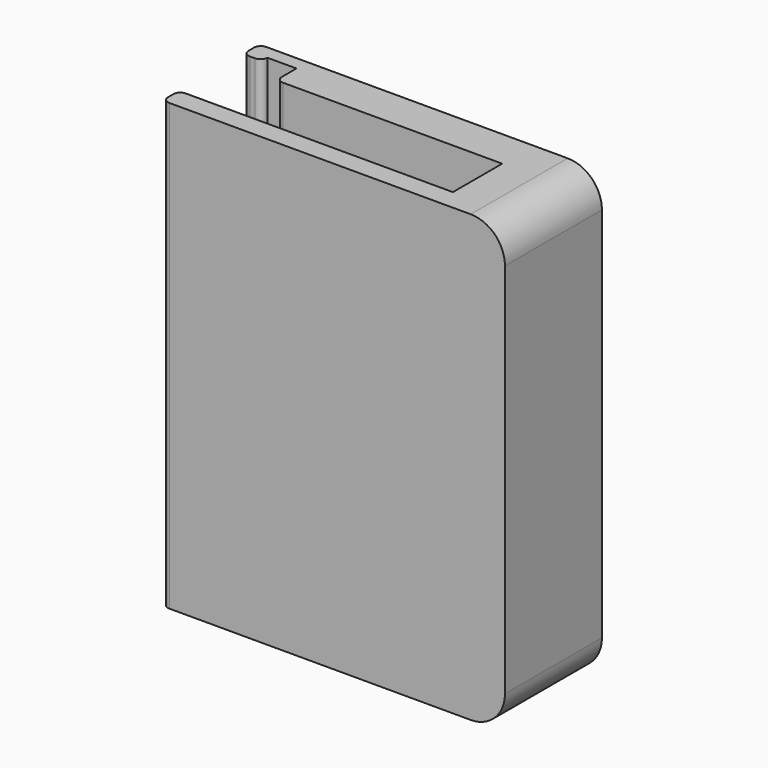
from build123d import *

# Parameters (mm, degrees)
F1_DEPTH = 32.5
F2_R     = 5


with BuildPart() as f1:
    # F0 (on Top) → F1 (new body, symmetric)
    with BuildSketch(Plane.XY):
        with BuildLine():
            Line((0, -5.344), (0, 12.356))
            Line((0, 12.356), (-49, 12.356))
            ThreePointArc((-49, 12.356), (-49.707107, 12.063107), (-50, 11.356))
            Line((-50, 11.356), (-50, 10.356))
            ThreePointArc((-50, 10.356), (-49.707107, 9.648893), (-49, 9.356))
            Line((-49, 9.356), (-48.25, 9.356))
            ThreePointArc((-48.25, 9.356), (-47.542893, 9.648893), (-47.25, 10.356))
            Line((-47.25, 10.356), (-43, 10.356))
            Line((-43, 10.356), (-43, 7.656))
            ThreePointArc((-43, 7.656), (-42.707107, 6.948893), (-42, 6.656))
            Line((-42, 6.656), (-10, 6.656))
            Line((-10, 6.656), (-10, -2.344))
            Line((-10, -2.344), (-49, -2.344))
            ThreePointArc((-49, -2.344), (-49.707107, -2.636893), (-50, -3.344))
            Line((-50, -3.344), (-50, -4.344))
            ThreePointArc((-50, -4.344), (-49.707107, -5.051107), (-49, -5.344))
            Line((-49, -5.344), (0, -5.344))
        make_face()
    extrude(amount=F1_DEPTH, both=True)

    # F2
    f2_edges = [f1.edges().sort_by_distance(p)[0] for p in [
        (0, 3.506, 32.5),
        (0, 3.506, -32.5),
    ]]
    fillet(f2_edges, radius=F2_R)


solid = f1.part
